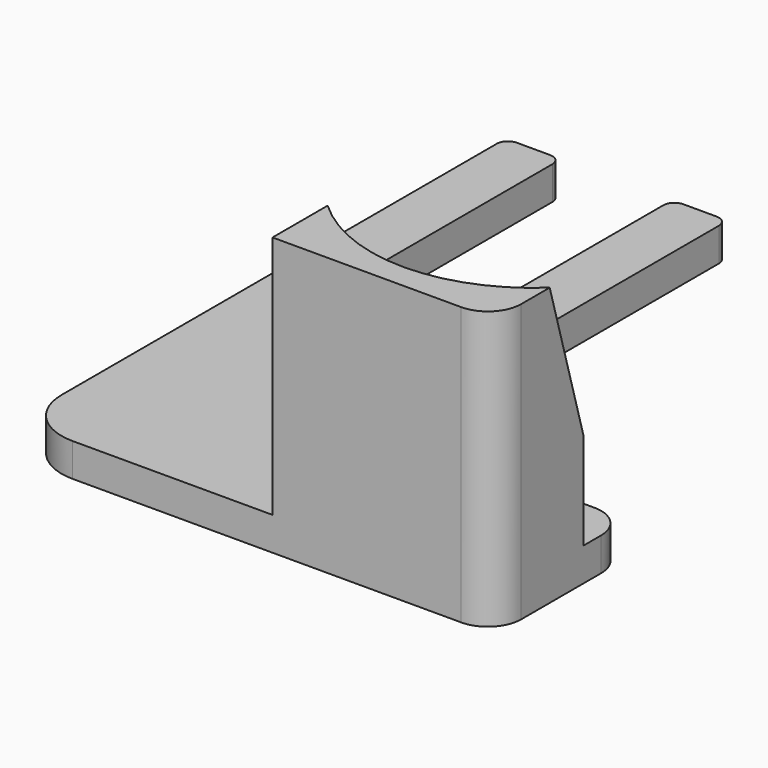
from build123d import *

# Parameters (mm, degrees)
CYLINDER001_R       = 3
CYLINDER001_DEPTH   = 10
CYLINDER_R          = 15
CYLINDER_DEPTH      = 27
CYLINDER_ROLL_ANGLE = 15.99999
BOX002_W            = 20
BOX002_H            = 10
BOX002_DEPTH        = 25
BOX004_W            = 3
BOX004_H            = 3
BOX004_DEPTH        = 3
BOX003_W            = 43
BOX003_H            = 15
BOX003_DEPTH        = 3
BOX001_W            = 10
BOX001_H            = 30
BOX001_DEPTH        = 10
BOX_W               = 20
BOX_H               = 45
BOX_DEPTH           = 3
FILLET_R            = 5
FILLET001_R         = 3
FILLET002_R         = 3
FILLET003_R         = 1
FILLET004_R         = 1
FILLET005_R         = 1
FILLET006_R         = 1


with BuildPart() as cylinder001:
    # Cylinder001 → Cylinder001 (new body)
    with BuildSketch(Plane(origin=(23, 8, -1), x_dir=(1, 0, 0), z_dir=(0, 0, 1))):
        Circle(CYLINDER001_R)
    extrude(amount=CYLINDER001_DEPTH)


with BuildPart() as cylinder:
    # Cylinder → Cylinder (new body)
    with BuildSketch(Plane.XY):
        Circle(CYLINDER_R)
    extrude(amount=CYLINDER_DEPTH)


with BuildPart() as cylinder_1:
    # Cylinder roll: moved
    add(cylinder.part.rotate(Axis((0, 0, 0), (1, 0, 0)), CYLINDER_ROLL_ANGLE))


with BuildPart() as cylinder_2:
    # Cylinder placement: moved
    add(cylinder_1.part.moved(Location((30, 13, 7))))


with BuildPart() as prise:
    # Box002 → Box002 (new body)
    with BuildSketch(Plane(origin=(20, -10, 0), x_dir=(1, 0, 0), z_dir=(0, 0, 1))):
        with Locations((10, 5)):
            Rectangle(BOX002_W, BOX002_H)
    extrude(amount=BOX002_DEPTH)

    # Cut001: cut Cylinder
    add(cylinder_2.part, mode=Mode.SUBTRACT)


with BuildPart() as prise_1:
    # Cut001 placement: moved
    add(prise.part.moved(Location((3, 0, 0))))


with BuildPart() as obj1:
    # Box004 → Box004 (new body)
    with BuildSketch(Plane(origin=(20, 5, 0), x_dir=(1, 0, 0), z_dir=(0, 0, 1))):
        with Locations((1.5, 1.5)):
            Rectangle(BOX004_W, BOX004_H)
    extrude(amount=BOX004_DEPTH)


with BuildPart() as extension_plan:
    # Box003 → Box003 (new body)
    with BuildSketch(Plane(origin=(0, -10, 0), x_dir=(1, 0, 0), z_dir=(0, 0, 1))):
        with Locations((21.5, 7.5)):
            Rectangle(BOX003_W, BOX003_H)
    extrude(amount=BOX003_DEPTH)


with BuildPart() as box02:
    # Box001 → Box001 (new body)
    with BuildSketch(Plane(origin=(5, 20, -3), x_dir=(1, 0, 0), z_dir=(0, 0, 1))):
        with Locations((5, 15)):
            Rectangle(BOX001_W, BOX001_H)
    extrude(amount=BOX001_DEPTH)


with BuildPart() as cut002:
    # Box → Box (new body)
    with BuildSketch(Plane.XY):
        with Locations((10, 22.5)):
            Rectangle(BOX_W, BOX_H)
    extrude(amount=BOX_DEPTH)

    # Cut: cut Box02
    add(box02.part, mode=Mode.SUBTRACT)

    # Fusion: union Extension plan
    add(extension_plan.part)

    # Fusion001: union obj1
    add(obj1.part)

    # Fusion002: union Prise
    add(prise_1.part)

    # Fillet
    fillet_edges = [cut002.edges().sort_by_distance(p)[0] for p in [
        (0, -10, 1.5),
    ]]
    fillet(fillet_edges, radius=FILLET_R)

    # Fillet001
    fillet001_edges = [cut002.edges().sort_by_distance(p)[0] for p in [
        (43, 5, 1.5),
    ]]
    fillet(fillet001_edges, radius=FILLET001_R)

    # Fillet002
    fillet002_edges = [cut002.edges().sort_by_distance(p)[0] for p in [
        (43, -10, 14),
    ]]
    fillet(fillet002_edges, radius=FILLET002_R)

    # Fillet003
    fillet003_edges = [cut002.edges().sort_by_distance(p)[0] for p in [
        (5, 45, 1.5),
    ]]
    fillet(fillet003_edges, radius=FILLET003_R)

    # Fillet004
    fillet004_edges = [cut002.edges().sort_by_distance(p)[0] for p in [
        (20, 45, 1.5),
    ]]
    fillet(fillet004_edges, radius=FILLET004_R)

    # Fillet005
    fillet005_edges = [cut002.edges().sort_by_distance(p)[0] for p in [
        (0, 45, 1.5),
    ]]
    fillet(fillet005_edges, radius=FILLET005_R)

    # Fillet006
    fillet006_edges = [cut002.edges().sort_by_distance(p)[0] for p in [
        (15, 45, 1.5),
    ]]
    fillet(fillet006_edges, radius=FILLET006_R)

    # Cut002: cut Cylinder001
    add(cylinder001.part, mode=Mode.SUBTRACT)


solid = cut002.part
